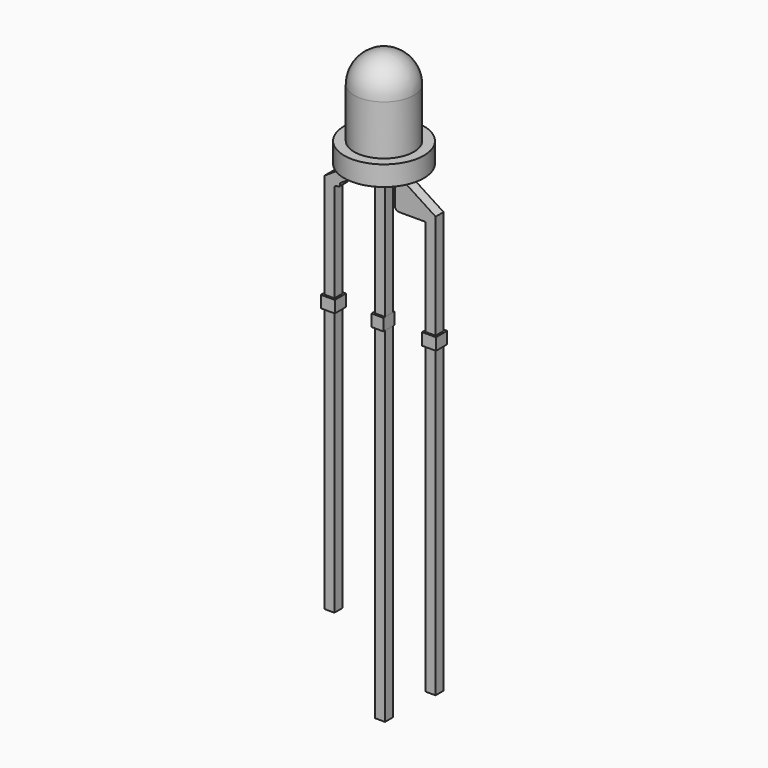
from build123d import *

# Parameters (mm, degrees)
F2_W     = 0.5
F2_H     = 13.3
F3_DEPTH = 0.25
F2_H_2   = 15.3
F2_H_3   = 17.3
F5_DEPTH = 0.25
F2_H_4   = 0.6
F2_W_2   = 0.1
F6_DEPTH = 0.35


with BuildPart() as f1:
    # F0 (on Front) → F1 (revolve)
    with BuildSketch(Plane.XZ):
        with BuildLine():
            Line((0, 5), (0, 1))
            Line((0, 1), (1.5, 1))
            Line((1.5, 1), (1.5, 3.5))
            ThreePointArc((1.5, 3.5), (1.0606601718, 4.5606601718), (0, 5))
        make_face()
        Polygon((0, 1), (0, 0), (2, 0), (2, 1), (1.5, 1), align=None)
    revolve(axis=Axis((0, 0, 3), (0, 0, -1)))


with BuildPart() as f3:
    # F2 (on Front) → F3 (new body, symmetric)
    with BuildSketch(Plane.XZ):
        with Locations((-2.54, -13.85)):
            Rectangle(F2_W, F2_H)
    extrude(amount=F3_DEPTH, both=True)


with BuildPart() as f3b:
    # F2 (on Front) → F3, piece 2 (new body, symmetric)
    with BuildSketch(Plane.XZ):
        Polygon((0.25, 0), (0, 0), (-0.25, 0), (-0.25, -6.6), (0, -6.6), (0.25, -6.6), align=None)
    extrude(amount=F3_DEPTH, both=True)


with BuildPart() as f3c:
    # F2 (on Front) → F3, piece 3 (new body, symmetric)
    with BuildSketch(Plane.XZ):
        with Locations((2.54, -14.85)):
            Rectangle(F2_W, F2_H_2)
    extrude(amount=F3_DEPTH, both=True)


with BuildPart() as f3d:
    # F2 (on Front) → F3, piece 4 (new body, symmetric)
    with BuildSketch(Plane.XZ):
        with BuildLine():
            Line((1.25, 0), (0.75, 0))
            Line((0.75, 0), (0.75, -0.6))
            Line((0.75, -0.6), (0.75, -1.5361567198))
            ThreePointArc((0.75, -1.5361567198), (0.8085786438, -1.6775780761), (0.95, -1.7361567198))
            Line((0.95, -1.7361567198), (2.29, -1.7361567198))
            Line((2.29, -1.7361567198), (2.29, -6.6))
            Line((2.29, -6.6), (2.79, -6.6))
            Line((2.79, -6.6), (2.79, -1.6))
            Line((2.79, -1.6), (2.79, -1.3415418103))
            Line((2.79, -1.3415418103), (1.25, -0.3415418103))
            Line((1.25, -0.3415418103), (1.25, 0))
        make_face()
    extrude(amount=F3_DEPTH, both=True)


with BuildPart() as f3e:
    # F2 (on Front) → F3, piece 5 (new body, symmetric)
    with BuildSketch(Plane.XZ):
        with BuildLine():
            Line((-0.75, -0.6), (-0.75, 0))
            Line((-0.75, 0), (-1.25, 0))
            Line((-1.25, 0), (-1.25, -0.3415418103))
            Line((-1.25, -0.3415418103), (-2.79, -1.3415418103))
            Line((-2.79, -1.3415418103), (-2.79, -1.6))
            Line((-2.79, -1.6), (-2.79, -6.6))
            Line((-2.79, -6.6), (-2.29, -6.6))
            Line((-2.29, -6.6), (-2.29, -1.7))
            ThreePointArc((-2.29, -1.7), (-2.2607106781, -1.6292893219), (-2.19, -1.6))
            Line((-2.19, -1.6), (-2.1025689155, -1.6))
            ThreePointArc((-2.1025689155, -1.6), (-2.0318582374, -1.5707106781), (-2.0025689155, -1.5))
            Line((-2.0025689155, -1.5), (-2.0025689155, -1.4133564386))
            Line((-2.0025689155, -1.4133564386), (-0.75, -0.6))
        make_face()
    extrude(amount=F3_DEPTH, both=True)


with BuildPart() as f3f:
    # F2 (on Front) → F3, piece 6 (new body, symmetric)
    with BuildSketch(Plane.XZ):
        with Locations((0, -15.85)):
            Rectangle(F2_W, F2_H_3)
    extrude(amount=F3_DEPTH, both=True)


with BuildPart() as f5:
    # F4 (on Front) → F5 (new body, symmetric)
    with BuildSketch(Plane.XZ):
        Polygon((0, -0.3), (0, 0), (-1.3955442701, 0), (-1.1966704624, -0.2733631991), (-0.8343339432, -0.3976593143), (-0.6548659876, -0.3), (-0.416238152, -0.3), align=None)
        Polygon((1.4089291217, 0), (0, 0), (0, -0.3), (0.416238152, -0.3), (0.6548659876, -0.3), (0.7594542112, -0.3976593143), (1.210055314, -0.2733631991), align=None)
    extrude(amount=F5_DEPTH, both=True)


with BuildPart() as f6:
    # F2 (on Front) → F6 (new body, symmetric)
    with BuildSketch(Plane.XZ):
        with Locations((-2.54, -6.9)):
            Rectangle(F2_W, F2_H_4)
        with Locations((-2.84, -6.9)):
            Rectangle(F2_W_2, F2_H_4)
        with Locations((-2.24, -6.9)):
            Rectangle(F2_W_2, F2_H_4)
    extrude(amount=F6_DEPTH, both=True)


with BuildPart() as f6b:
    # F2 (on Front) → F6, piece 2 (new body, symmetric)
    with BuildSketch(Plane.XZ):
        Polygon((0.25, -7.2), (0.25, -6.6), (0, -6.6), (-0.25, -6.6), (-0.25, -7.2), align=None)
        with Locations((-0.3, -6.9)):
            Rectangle(F2_W_2, F2_H_4)
    extrude(amount=F6_DEPTH, both=True)


with BuildPart() as f6c:
    # F2 (on Front) → F6, piece 3 (new body, symmetric)
    with BuildSketch(Plane.XZ):
        with Locations((2.54, -6.9)):
            Rectangle(F2_W, F2_H_4)
        with Locations((2.24, -6.9)):
            Rectangle(F2_W_2, F2_H_4)
        with Locations((2.84, -6.9)):
            Rectangle(F2_W_2, F2_H_4)
    extrude(amount=F6_DEPTH, both=True)


solid = Compound([f1.part, f3.part, f3b.part, f3c.part, f3d.part, f3e.part, f3f.part, f5.part, f6.part, f6b.part, f6c.part])
